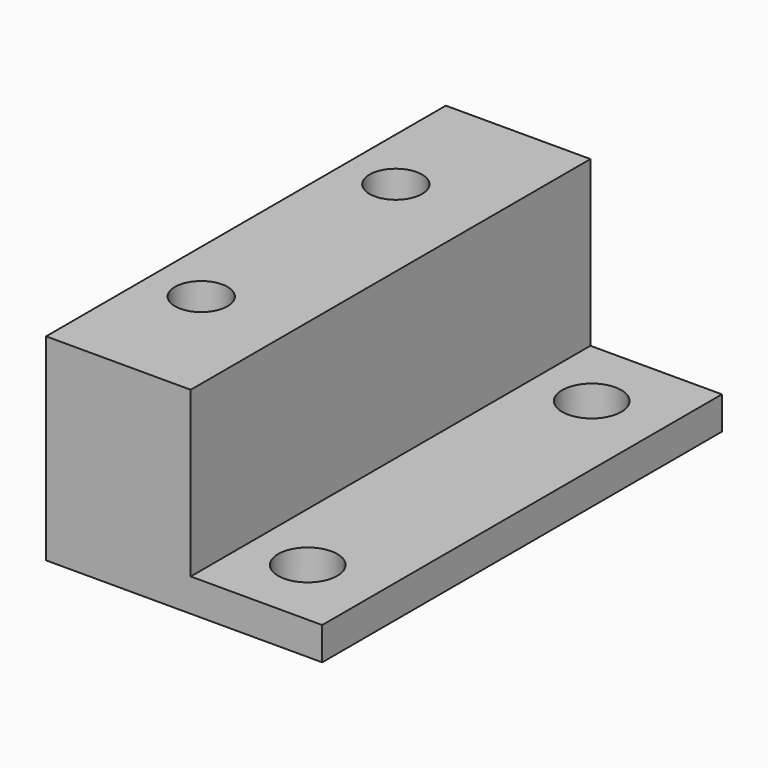
from build123d import *

# Parameters (mm, degrees)
F0_R     = 2.25
F1_DEPTH = 2.5
F2_R     = 2
F3_DEPTH = 15
F4_W     = 9
F4_H     = 33
F5_DEPTH = 5


with BuildPart() as f1:
    # F0 (on Top) → F1 (new body)
    with BuildSketch(Plane.XY):
        with BuildLine():
            ThreePointArc((19.25, 32.5), (15.40901, 34.09099), (17, 30.25))
            ThreePointArc((17, 30.25), (18.59099, 30.90901), (19.25, 32.5))
        make_face()
        Polygon((12.5, 19), (12.5, 0), (22.5, 0), (22.5, 38), (12.5, 38), align=None)
        with Locations((17, 5.5)):
            Circle(F0_R, mode=Mode.SUBTRACT)
        with BuildLine():
            ThreePointArc((19.25, 32.5), (18.59099, 30.90901), (17, 30.25))
            ThreePointArc((17, 30.25), (15.40901, 34.09099), (19.25, 32.5))
        make_face(mode=Mode.SUBTRACT)
    extrude(amount=F1_DEPTH)

    # F2 (on Top) → F3 (join)
    with BuildSketch(Plane.XY):
        with BuildLine():
            ThreePointArc((7.5, 28.25), (4.085786, 29.664214), (5.5, 26.25))
            ThreePointArc((5.5, 26.25), (6.914214, 26.835786), (7.5, 28.25))
        make_face()
        Polygon((1.5, 19), (1.5, 0), (12.5, 0), (12.5, 38), (1.5, 38), align=None)
        with Locations((5.5, 9.75)):
            Circle(F2_R, mode=Mode.SUBTRACT)
        with BuildLine():
            ThreePointArc((7.5, 28.25), (6.914214, 26.835786), (5.5, 26.25))
            ThreePointArc((5.5, 26.25), (4.085786, 29.664214), (7.5, 28.25))
        make_face(mode=Mode.SUBTRACT)
    extrude(amount=F3_DEPTH)

    # F4 (on Top) → F5 (cut)
    with BuildSketch(Plane.XY):
        with Locations((6, 19)):
            Rectangle(F4_W, F4_H)
    extrude(amount=F5_DEPTH, mode=Mode.SUBTRACT)


solid = f1.part
